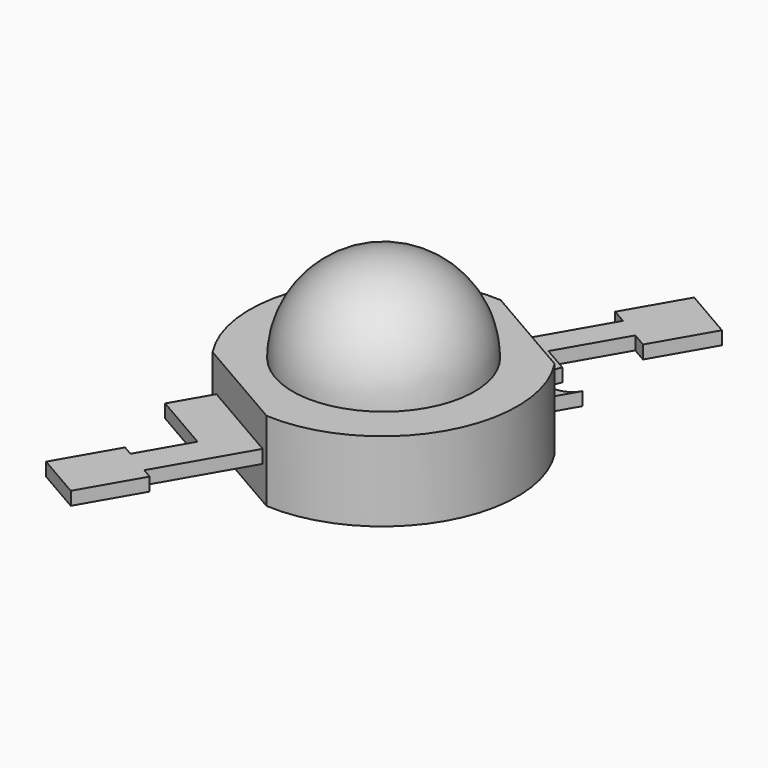
from build123d import *

# Parameters (mm, degrees)
REVOLUTION004_ANGLE       = -180
PAD021_DEPTH              = 0.4
BODY021_PLACEMENT_ANGLE   = 180
PAD020_DEPTH              = 2.4
FUSION005_PLACEMENT_ANGLE = 60


with BuildPart() as light004:
    # Sketch033 (on Face1 of ShapeBinder009) → Revolution004 (revolve)
    with BuildSketch(Plane.XY.offset(2.4)):
        with BuildLine():
            ThreePointArc((-2.75, 0), (0, -2.75), (2.75, 0))
            Line((-2.75, 0), (2.75, 0))
        make_face()
    revolve(axis=Axis((-2.75, 0, 2.4), (1, 0, 0)), revolution_arc=REVOLUTION004_ANGLE)


with BuildPart() as body021:
    # Sketch034 (on Face1 of ShapeBinder010) → Pad021 (new body)
    with BuildSketch(Plane(origin=(0, 0, 0), x_dir=(1, 0, 0), z_dir=(0, 0, -1))):
        with BuildLine():
            Line((3.65, 1.5), (6.65, 1.5))
            Line((6.65, 1.5), (6.65, 2))
            Line((6.65, 2), (8.65, 2))
            Line((8.65, 2), (8.65, 0.2))
            Line((8.65, 0.2), (6.65, 0.2))
            Line((6.65, 0.2), (6.65, 0.7))
            Line((6.65, 0.7), (4.45, 0.7))
            Line((4.45, 0.7), (4.45, -0.2))
            ThreePointArc((4.45, -0.2), (3.8, -0.85), (4.45, -1.5))
            Line((4.45, -1.5), (-6.65, -1.5))
            Line((-6.65, -1.5), (-6.65, -1.85))
            Line((-6.65, -1.85), (-8.65, -1.85))
            Line((-8.65, -1.85), (-8.65, -0.25))
            Line((-8.65, -0.25), (-6.65, -0.25))
            Line((-6.65, -0.25), (-6.65, -0.6))
            Line((-6.65, -0.6), (-4.95, -0.6))
            Line((-4.95, -0.6), (-4.95, 1.5))
            Line((-4.95, 1.5), (3.65, 1.5))
        make_face()
    extrude(amount=-PAD021_DEPTH)


with BuildPart() as body021_1:
    # Body021 placement: moved
    add(body021.part.moved(Location((0, 0, 1.4))).rotate(Axis((0, 0, 1.4), (1, 0, 0)), BODY021_PLACEMENT_ANGLE))


with BuildPart() as led5:
    # Sketch032 → Pad020 (new body)
    with BuildSketch(Plane.XY):
        with BuildLine():
            Line((-3.65, 1.75), (-3.65, -1.75))
            ThreePointArc((-3.65, -1.75), (0, -4), (3.65, -1.75))
            Line((3.65, 1.75), (3.65, -1.75))
            ThreePointArc((3.65, 1.75), (0, 4), (-3.65, 1.75))
        make_face()
    extrude(amount=PAD020_DEPTH)

    # Fusion005: union light004, Body021
    add(light004.part)
    add(body021_1.part)


with BuildPart() as led5_1:
    # Fusion005 placement: moved
    add(led5.part.moved(Location((43, 14, -1.5))).rotate(Axis((43, 14, -1.5), (0, 0, 1)), FUSION005_PLACEMENT_ANGLE))


solid = led5_1.part
